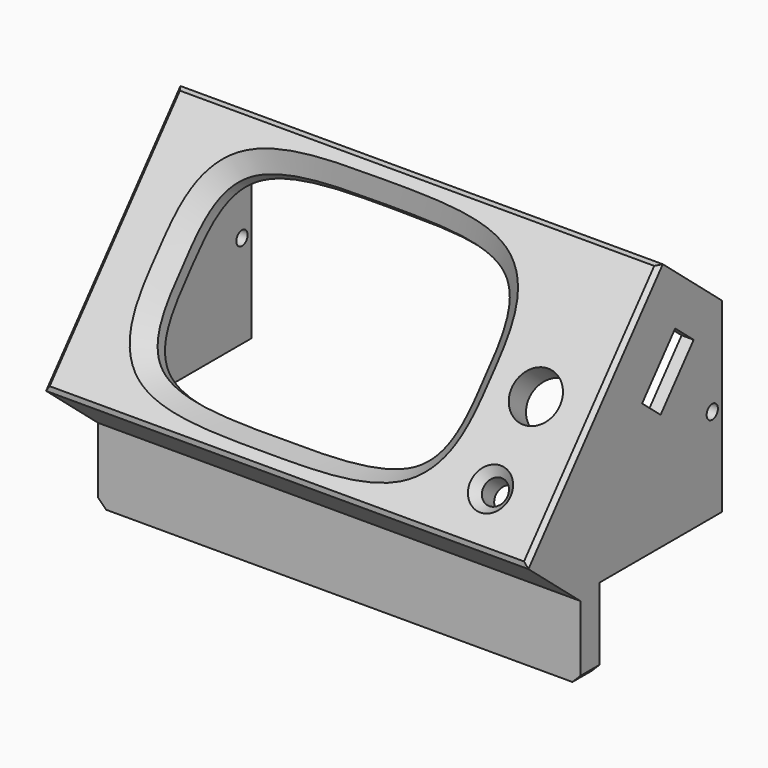
from build123d import *

# Parameters (mm, degrees)
SKETCH029_W             = 120
SKETCH029_H             = 65
PAD005_DEPTH            = 25
SKETCH028_R             = 3
POCKET016_DEPTH         = 25.001
SKETCH001_R             = 6
POCKET017_DEPTH         = 25.001
SKETCH030_W             = 114
SKETCH030_H             = 60
POCKET018_DEPTH         = 18
CHAMFER001_SIZE         = 4
SKETCH031_R             = 3.5
PAD006_DEPTH            = 4.5
SKETCH032_R             = 1.4
POCKET019_DEPTH         = 8
SKETCH033_W             = 16
SKETCH033_H             = 6.5
POCKET020_DEPTH         = 9
SKETCH034_W             = 28
SKETCH034_H             = 4
POCKET021_DEPTH         = 5
PAD007_DEPTH            = 120
SKETCH027_W             = 114
SKETCH027_H             = 60
POCKET022_DEPTH         = 47
SKETCH016_W             = 16
SKETCH016_H             = 7.5
POCKET023_DEPTH         = 9
CHAMFER002_SIZE         = 2
SKETCH022_R             = 1.75
POCKET024_DEPTH         = 120.001
CHAMFER005_SIZE         = 2
CHAMFER006_SIZE         = 2
SKETCH023_R             = 6.5
POCKET025_DEPTH         = 2.3
CHAMFER007_SIZE         = 1
BODY002_PLACEMENT_ANGLE = 50


with BuildPart() as part:
    # Sketch029 → Pad005 (new body)
    with BuildSketch(Plane.XY):
        with Locations((7, 0)):
            Rectangle(SKETCH029_W, SKETCH029_H)
        with BuildLine():
            add(Edge.make_bspline(
                [(0, 25.038668), (-12.580271, 25.038668), (-37.740814, 25.116003), (-37.5, 0), (-37.740814, -25.116003), (0, -25), (37.740814, -25.116003), (37.5, 0), (37.740814, 25.116003), (12.580271, 25.038668), (0, 25.038668)],
                knots=[0, 0, 0, 0, 0.125, 0.25, 0.375, 0.5, 0.625, 0.75, 0.875, 1, 1, 1, 1], degree=3))
        make_face(mode=Mode.SUBTRACT)
    extrude(amount=PAD005_DEPTH)

    # Sketch028 → Pocket016 (cut, through all)
    with BuildSketch(Plane(origin=(0, 0, 0), x_dir=(1, 0, 0), z_dir=(0, 0, -1))):
        with Locations((52, 20.5)):
            Circle(SKETCH028_R)
    extrude(amount=-POCKET016_DEPTH, mode=Mode.SUBTRACT)

    # Sketch001 (on Face5 of Pocket016) → Pocket017 (cut, through all)
    with BuildSketch(Plane.XY.offset(25)):
        with Locations((53, -0.5)):
            Circle(SKETCH001_R)
    extrude(amount=-POCKET017_DEPTH, mode=Mode.SUBTRACT)

    # Sketch030 (on Face4 of Pocket017) → Pocket018 (cut)
    with BuildSketch(Plane(origin=(0, 0, 0), x_dir=(1, 0, 0), z_dir=(0, 0, -1))):
        with Locations((7, 0)):
            Rectangle(SKETCH030_W, SKETCH030_H)
    extrude(amount=-POCKET018_DEPTH, mode=Mode.SUBTRACT)

    # Chamfer001
    chamfer001_edges = [part.edges().sort_by_distance(p)[0] for p in [
        (0, -25.038668, 25),
    ]]
    chamfer(chamfer001_edges, length=CHAMFER001_SIZE)

    # Sketch031 (on Face11 of Chamfer001) → Pad006 (join)
    with BuildSketch(Plane(origin=(0, 0, 18), x_dir=(1, 0, 0), z_dir=(0, 0, -1))):
        with Locations((-45.5, 25)):
            Circle(SKETCH031_R)
        with Locations((-45.5, -25)):
            Circle(SKETCH031_R)
        with Locations((58.5, -25)):
            Circle(SKETCH031_R)
        with Locations((58.5, 25)):
            Circle(SKETCH031_R)
    extrude(amount=PAD006_DEPTH)

    # Sketch032 (on Face22 of Pad006) → Pocket019 (cut)
    with BuildSketch(Plane(origin=(0, 0, 13.5), x_dir=(1, 0, 0), z_dir=(0, 0, -1))):
        with Locations((-45.5, 25)):
            Circle(SKETCH032_R)
        with Locations((58.5, 25)):
            Circle(SKETCH032_R)
        with Locations((58.5, -25)):
            Circle(SKETCH032_R)
        with Locations((-45.5, -25)):
            Circle(SKETCH032_R)
    extrude(amount=-POCKET019_DEPTH, mode=Mode.SUBTRACT)

    # Sketch033 (on Face5 of Pocket019) → Pocket020 (cut)
    with BuildSketch(Plane.YZ.offset(67)):
        with Locations((15, 3.25)):
            Rectangle(SKETCH033_W, SKETCH033_H)
    extrude(amount=-POCKET020_DEPTH, mode=Mode.SUBTRACT)

    # Sketch034 (on Face4 of Pocket020) → Pocket021 (cut)
    with BuildSketch(Plane(origin=(-53, 0, 0), x_dir=(0, -1, 0), z_dir=(-1, 0, 0))):
        with Locations((0, 10.5)):
            Rectangle(SKETCH034_W, SKETCH034_H)
    extrude(amount=-POCKET021_DEPTH, mode=Mode.SUBTRACT)

    # Sketch010 (on Face4 of Pocket021) → Pad007 (join)
    with BuildSketch(Plane(origin=(-53, 0, 0), x_dir=(0, -1, 0), z_dir=(-1, 0, 0))):
        Polygon((2.976444, -29.768271), (27.402373, -0.658582), (42.723262, -13.514335), (46.579988, -8.918068), (27.480858, 7.108005), (-32.5, 7.108005), (-32.5, 0), align=None)
    extrude(amount=-PAD007_DEPTH)

    # Sketch027 → Pocket022 (cut)
    with BuildSketch(Plane(origin=(0, 0, 13.5), x_dir=(1, 0, 0), z_dir=(0, 0, -1))):
        with Locations((7, 0)):
            Rectangle(SKETCH027_W, SKETCH027_H)
    extrude(amount=POCKET022_DEPTH, mode=Mode.SUBTRACT)

    # Sketch016 (on Face5 of Pocket022) → Pocket023 (cut)
    with BuildSketch(Plane.YZ.offset(67)):
        with Locations((15, 7.25)):
            Rectangle(SKETCH016_W, SKETCH016_H)
    extrude(amount=-POCKET023_DEPTH, mode=Mode.SUBTRACT)

    # Chamfer002
    chamfer002_edges = [part.edges().sort_by_distance(p)[0] for p in [
        (49, -20.5, 25),
    ]]
    chamfer(chamfer002_edges, length=CHAMFER002_SIZE)

    # Sketch022 (on Face25 of Chamfer002) → Pocket024 (cut, through all)
    with BuildSketch(Plane(origin=(-53, 0, 0), x_dir=(0, -1, 0), z_dir=(-1, 0, 0))):
        with Locations((-12.833415, -12.586002)):
            Circle(SKETCH022_R)
    extrude(amount=-POCKET024_DEPTH, mode=Mode.SUBTRACT)

    # Chamfer005
    chamfer005_edges = [part.edges().sort_by_distance(p)[0] for p in [
        (67, -44.651625, -11.216201),
    ]]
    chamfer(chamfer005_edges, length=CHAMFER005_SIZE)

    # Chamfer006
    chamfer006_edges = [part.edges().sort_by_distance(p)[0] for p in [
        (-53, -44.651625, -11.216201),
    ]]
    chamfer(chamfer006_edges, length=CHAMFER006_SIZE)

    # Sketch023 (on Face8 of Chamfer006) → Pocket025 (cut)
    with BuildSketch(Plane(origin=(0, -10.997712, 13.106563), x_dir=(1, 0, 0), z_dir=(0, 0.642788, -0.766044))):
        with Locations((-37, 32)):
            Circle(SKETCH023_R)
        with Locations((37, 32)):
            Circle(SKETCH023_R)
    extrude(amount=-POCKET025_DEPTH, mode=Mode.SUBTRACT)

    # Chamfer007
    chamfer007_edges = [part.edges().sort_by_distance(p)[0] for p in [
        (7, 32.5, 25),
        (67, 0, 25),
        (7, -32.5, 25),
        (-53, 0, 25),
    ]]
    chamfer(chamfer007_edges, length=CHAMFER007_SIZE)


with BuildPart() as part_1:
    # Body002 placement: moved
    add(part.part.moved(Location((14, 6.522108, 107.834158))).rotate(Axis((14, 6.522108, 107.834158), (1, 0, 0)), BODY002_PLACEMENT_ANGLE))


solid = part_1.part
